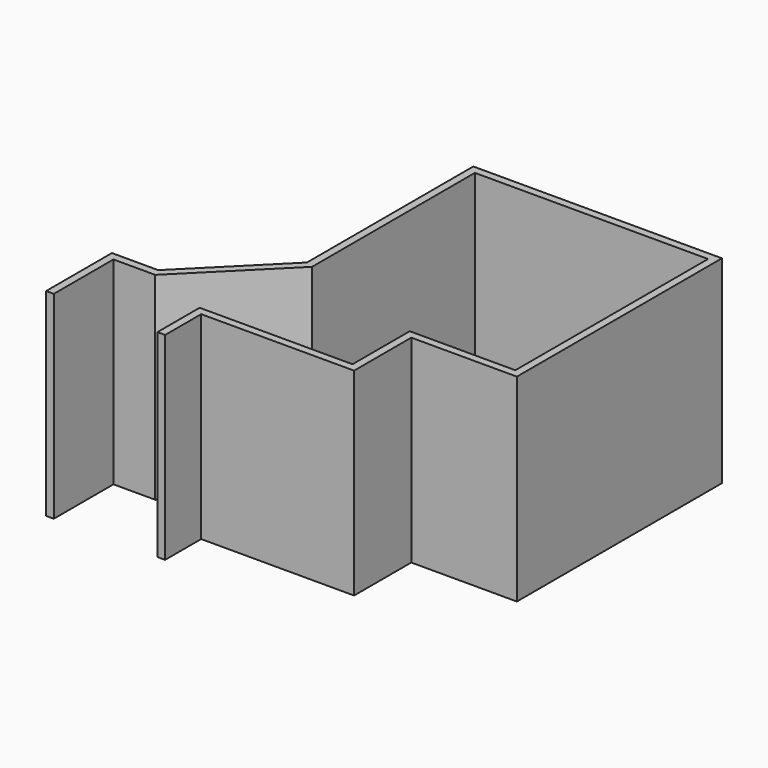
from build123d import *

# Parameters (mm, degrees)
F1_DEPTH = 2286


with BuildPart() as f1:
    # F0 (on Top) → F1 (new body)
    with BuildSketch(Plane.XY):
        Polygon((-2692.4, 0), (0, 0), (0, -2781.3), (-1219.2, -2781.3), (-1219.2, -3606.8), (-2984.5, -3606.8), (-2984.5, -4216.4), (-2895.6, -4216.4), (-2895.6, -3695.7), (-1130.3, -3695.7), (-1130.3, -2870.2), (88.9, -2870.2), (88.9, 88.9), (-2781.3, 88.9), (-2781.3, -2312.676414), (-3735.012271, -3266.388686), (-4269.688686, -3266.388686), (-4269.688686, -4216.4), (-4180.788686, -4216.4), (-4180.788686, -3355.288686), (-3698.188686, -3355.288686), (-2692.4, -2349.5), align=None)
    extrude(amount=F1_DEPTH)


solid = f1.part
